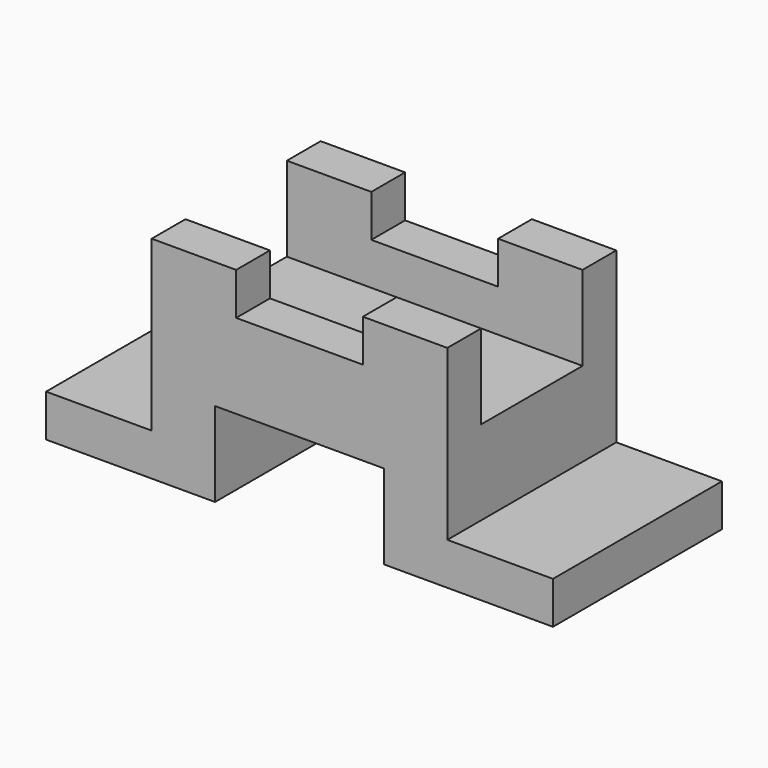
from build123d import *

# Parameters (mm, degrees)
F1_W     = 120
F1_H     = 50
F2_DEPTH = 50
F3_W     = 25
F3_H     = 40
F3_W_2   = 30
F3_H_2   = 10
F3_W_3   = 40
F3_H_3   = 20
F4_DEPTH = 50
F5_W     = 30.0000000001
F5_H     = 20
F6_DEPTH = 95.001


with BuildPart() as f2:
    # F1 (on Front) → F2 (new body)
    with BuildSketch(Plane.XZ):
        Rectangle(F1_W, F1_H)
    extrude(amount=F2_DEPTH)

    # F3 (on face) → F4 (cut, through all)
    with BuildSketch(Plane.XZ.offset(50)):
        with Locations((-47.5, 5)):
            Rectangle(F3_W, F3_H)
        with Locations((0, 20)):
            Rectangle(F3_W_2, F3_H_2)
        with Locations((47.5, 5)):
            Rectangle(F3_W, F3_H)
        with Locations((0, -15)):
            Rectangle(F3_W_3, F3_H_3)
    extrude(amount=-F4_DEPTH, mode=Mode.SUBTRACT)

    # F5 (on face) → F6 (cut, through all)
    with BuildSketch(Plane.YZ.offset(35)):
        with Locations((-24.9999999995, 15)):
            Rectangle(F5_W, F5_H)
    extrude(amount=-F6_DEPTH, mode=Mode.SUBTRACT)


solid = f2.part
